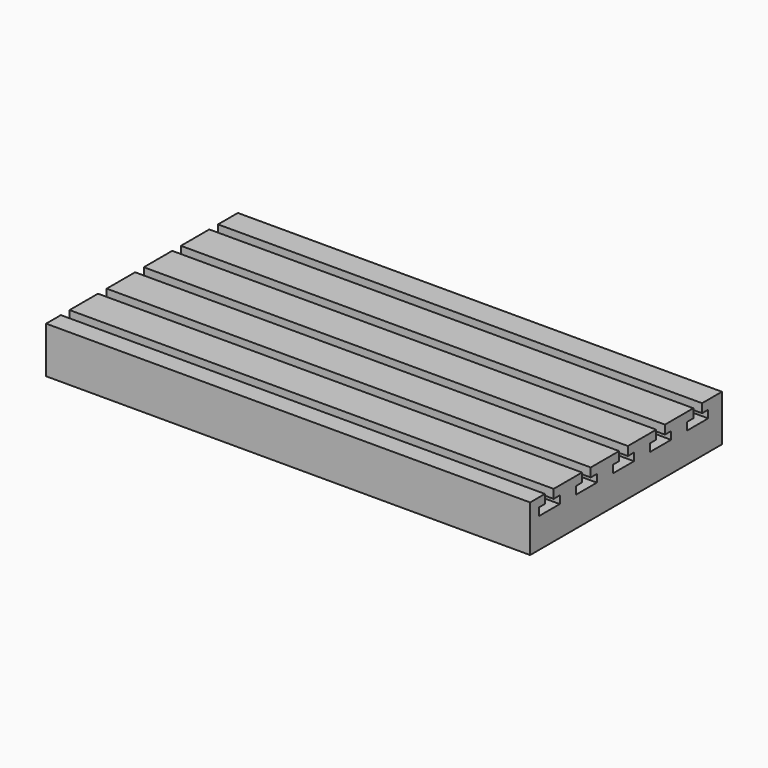
from build123d import *

# Parameters (mm, degrees)
SKETCH002_W         = 297.164322
SKETCH002_H         = 57.449348
PAD001_DEPTH        = 300
POCKET001_DEPTH     = 600
LINEARPATTERN_COUNT = 5
LINEARPATTERN_PITCH = 57.5


with BuildPart() as part:
    # Sketch002 → Pad001 (new body, symmetric)
    with BuildSketch(Plane.YZ):
        with Locations((16.872627, -28.724674)):
            Rectangle(SKETCH002_W, SKETCH002_H)
    extrude(amount=PAD001_DEPTH, both=True)

    # Sketch003 (on Face6 of Pad001) → Pocket001 (cut)
    with BuildSketch(Plane.YZ.offset(300)):
        Polygon((-108.802104, 0), (-108.802104, -10.94843), (-118.305492, -10.94843), (-118.305492, -20.451817), (-85.790531, -20.451817), (-85.790531, -10.94843), (-95.293918, -10.94843), (-95.293918, 0), align=None)
    pocket001 = extrude(amount=-POCKET001_DEPTH, mode=Mode.SUBTRACT)

    # LinearPattern: Pocket001 ×5
    with Locations(*[(0, i * LINEARPATTERN_PITCH, 0) for i in range(1, LINEARPATTERN_COUNT)]):
        add(pocket001, mode=Mode.SUBTRACT)


solid = part.part
